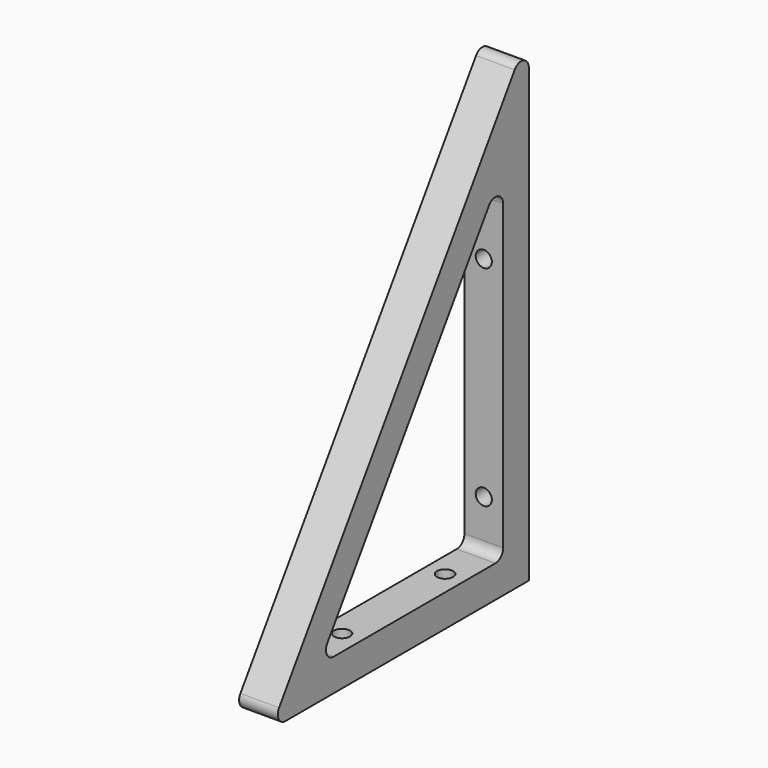
from build123d import *

# Parameters (mm, degrees)
F1_DEPTH = 6
F2_R     = 3
F3_R     = 2.5
F4_DEPTH = 10
F5_R     = 2.5
F6_DEPTH = 10


with BuildPart() as f1:
    # F0 (on Right) → F1 (new body, symmetric)
    with BuildSketch(Plane.YZ):
        Polygon((0, 150), (-100, 0), (0, 0), align=None)
        Polygon((-10, 10), (-81.314829, 10), (-10, 116.972244), align=None, mode=Mode.SUBTRACT)
    extrude(amount=F1_DEPTH, both=True)

    # F2
    f2_edges = [f1.edges().sort_by_distance(p)[0] for p in [
        (0, -100, 0),
        (0, 0, 150),
        (0, -10, 116.972244),
        (0, -10, 10),
        (0, -81.314829, 10),
    ]]
    fillet(f2_edges, radius=F2_R)

    # F3 (on face) → F4 (cut, through all)
    with BuildSketch(Plane(origin=(0, 0, 0), x_dir=(-1, 0, 0), z_dir=(0, 1, 0))):
        with Locations((0, 90)):
            Circle(F3_R)
        with Locations((0, 25)):
            Circle(F3_R)
    extrude(amount=-F4_DEPTH, mode=Mode.SUBTRACT)

    # F5 (on face) → F6 (cut, through all)
    with BuildSketch(Plane(origin=(0, 0, 0), x_dir=(1, 0, 0), z_dir=(0, 0, -1))):
        with Locations((0, 25)):
            Circle(F5_R)
        with Locations((0, 65)):
            Circle(F5_R)
    extrude(amount=-F6_DEPTH, mode=Mode.SUBTRACT)


solid = f1.part
